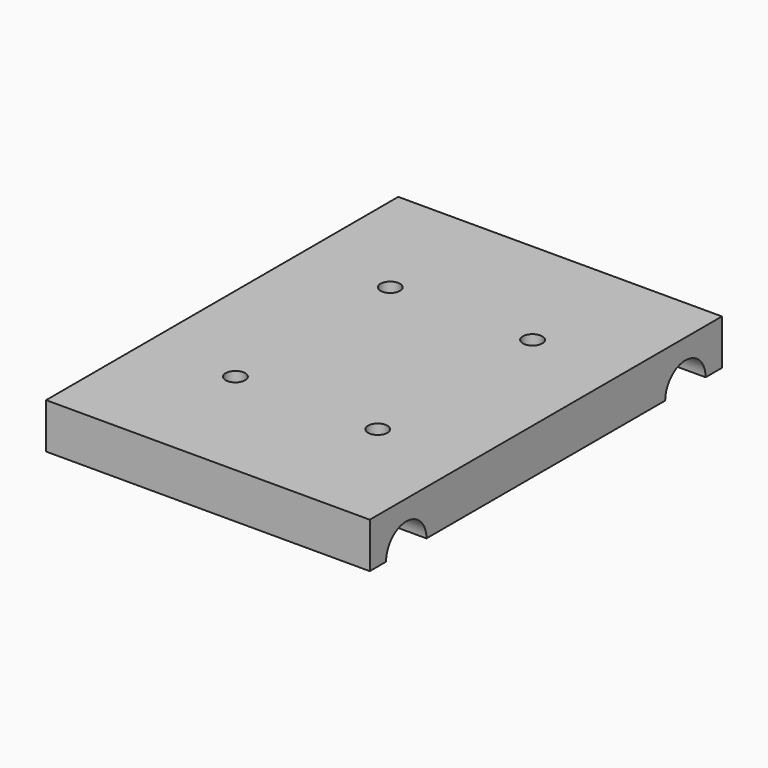
from build123d import *

# Parameters (mm, degrees)
F1_DEPTH = 50
F3_D     = 3


with BuildPart() as f1:
    # F0 (on Right) → F1 (new body)
    with BuildSketch(Plane.YZ):
        with BuildLine():
            Line((34, 0), (34, 7))
            Line((34, 7), (-34, 7))
            Line((-34, 7), (-34, 0))
            Line((-34, 0), (-30.85, 0))
            ThreePointArc((-30.85, 0), (-26.95, 3.9), (-23.05, 0))
            Line((-23.05, 0), (23.05, 0))
            ThreePointArc((23.05, 0), (26.95, 3.9), (30.85, 0))
            Line((30.85, 0), (34, 0))
        make_face()
    extrude(amount=F1_DEPTH)

    # F3 (through all)
    with Locations(Plane.XY.offset(7)):
        with Locations((14.007353, 14.95), (35.992647, 14.95), (14.007353, -14.95), (35.992647, -14.95)):
            Hole(F3_D / 2)


solid = f1.part
